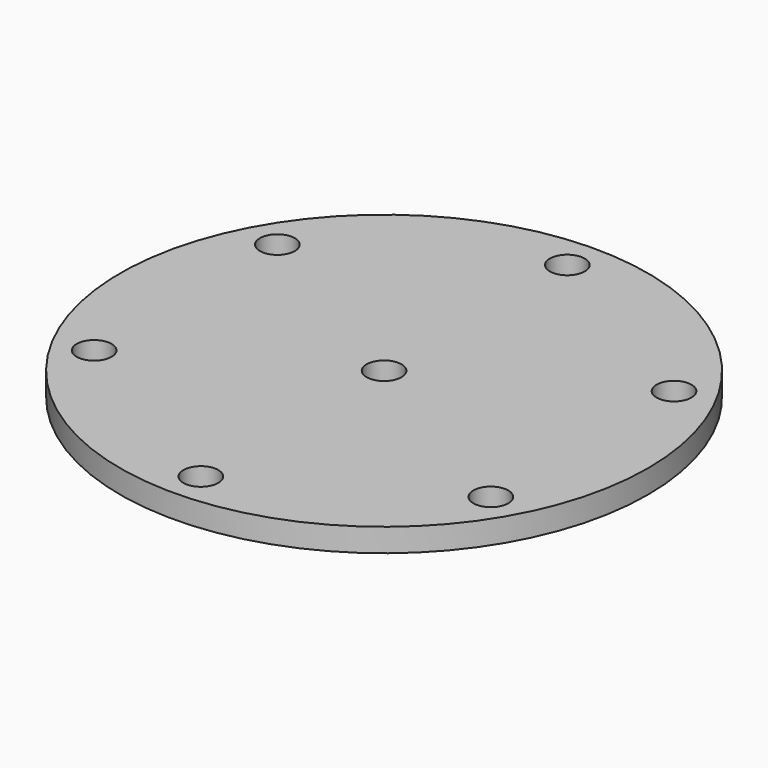
from build123d import *

# Parameters (mm, degrees)
F0_R     = 35.9791
F1_DEPTH = 3.175
F2_R     = 2.38125
F3_DEPTH = 12.7


with BuildPart() as f1:
    # F0 (on Top) → F1 (new body)
    with BuildSketch(Plane.XY):
        Circle(F0_R)
    extrude(amount=F1_DEPTH)

    # F2 (on face) → F3 (cut)
    with BuildSketch(Plane(origin=(0, 0, 0), x_dir=(1, 0, 0), z_dir=(0, 0, -1))):
        with Locations((-27.034369, -15.6083)):
            Circle(F2_R)
        with Locations((-27.034369, 15.6083)):
            Circle(F2_R)
        with Locations((0, 31.2166)):
            Circle(F2_R)
        with Locations((27.034369, 15.6083)):
            Circle(F2_R)
        with Locations((27.034369, -15.6083)):
            Circle(F2_R)
        with Locations((0, -31.2166)):
            Circle(F2_R)
        Circle(F2_R)
    extrude(amount=-F3_DEPTH, mode=Mode.SUBTRACT)


solid = f1.part
